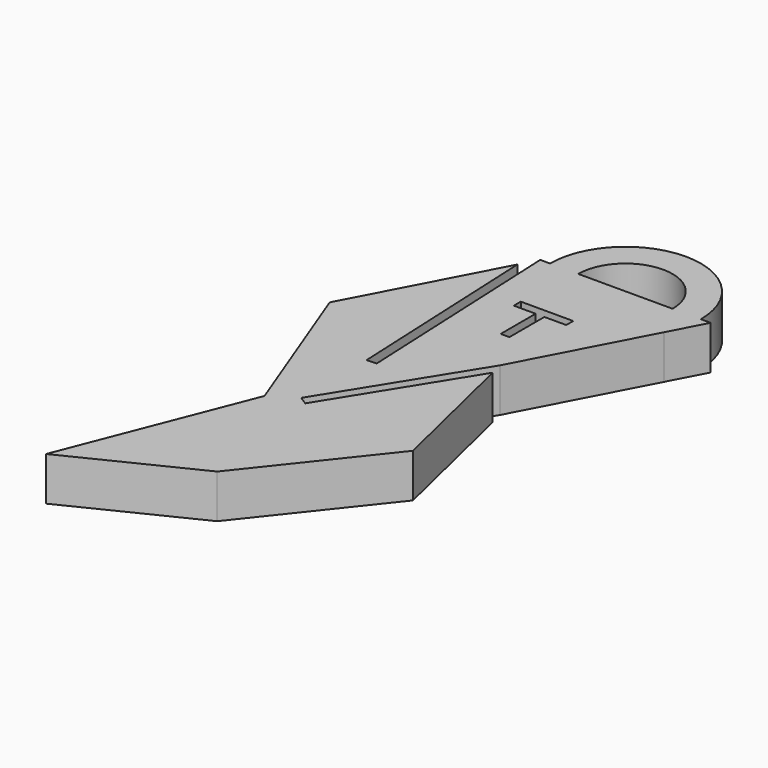
from build123d import *

# Parameters (mm, degrees)
F1_DEPTH = 5
F3_DEPTH = 25
F5_DEPTH = 25


with BuildPart() as f1:
    # F0 (on Top) → F1 (new body)
    with BuildSketch(Plane.XY):
        with BuildLine():
            ThreePointArc((4.3541757575, 0), (9.7452402115, 5.391064454), (15.1363046655, 0))
            Line((15.1363046655, 0), (18.3717107881, 0))
            ThreePointArc((18.3717107881, 0), (9.7452402115, 8.6264705766), (1.1187696349, 0))
            Line((1.1187696349, 0), (4.3541757575, 0))
        make_face()
        with BuildLine():
            Line((18.3717107881, 0), (15.1363046655, 0))
            ThreePointArc((15.1363046655, 0), (9.7452402115, -5.391064454), (4.3541757575, 0))
            Line((4.3541757575, 0), (1.1187696349, 0))
            ThreePointArc((1.1187696349, 0), (7.678470178, -8.3752287275), (17.3813779901, -4.0131526802))
            ThreePointArc((17.3813779901, -4.0131526802), (18.1204689389, -2.0667700335), (18.3717107881, 0))
        make_face()
        with BuildLine():
            Line((19.490480423, 0), (18.3717107881, 0))
            ThreePointArc((18.3717107881, 0), (18.1204689389, -2.0667700335), (17.3813779901, -4.0131526802))
            Line((17.3813779901, -4.0131526802), (19.490480423, 0))
        make_face()
        with BuildLine():
            ThreePointArc((17.3813779901, -4.0131526802), (7.678470178, -8.3752287275), (1.1187696349, 0))
            Line((1.1187696349, 0), (0, 0))
            Line((0, 0), (-9.5463581383, -18.164595589))
            Line((-9.5463581383, -18.164595589), (-2.7843534481, -35.9314270318))
            Line((-2.7843534481, -35.9314270318), (-11.0048279166, -56.8803735077))
            Line((-11.0048279166, -56.8803735077), (3.0495305546, -49.9857850373))
            Line((3.0495305546, -49.9857850373), (14.1869476065, -35.9314270318))
            Line((14.1869476065, -35.9314270318), (9.9441222847, -18.164595589))
            Line((9.9441222847, -18.164595589), (17.3813779901, -4.0131526802))
        make_face()
        with BuildLine():
            ThreePointArc((4.3541757575, 0), (9.7452402115, -5.391064454), (15.1363046655, 0))
            Line((15.1363046655, 0), (4.3541757575, 0))
        make_face()
    extrude(amount=F1_DEPTH)

    # F2 (on face) → F3 (cut)
    with BuildSketch(Plane.XY.offset(5)):
        Polygon((1.1187696349, -24.7765574604), (0, 0), (-1.0323523379, -1.9643368131), (0, -24.8270747891), align=None)
        Polygon((10.3103312495, -19.6980956646), (9.9441222847, -18.164595589), (0, -34.1810695827), (0.9515207789, -34.7718387486), align=None)
    extrude(amount=-F3_DEPTH, mode=Mode.SUBTRACT)

    # F4 (on face) → F5 (cut)
    with BuildSketch(Plane.XY.offset(5)):
        Polygon((3.6861358676, -8.3900917694), (6.1861358676, -8.3900917694), (6.1861358676, -13.3900917694), (7.1861358676, -13.3900917694), (7.1861358676, -8.3900917694), (9.6861358676, -8.3900917694), (9.6861358676, -7.3900917694), (9.0056210756, -7.3900917694), (3.6861358676, -7.3900917694), align=None)
    extrude(amount=-F5_DEPTH, mode=Mode.SUBTRACT)


solid = f1.part
